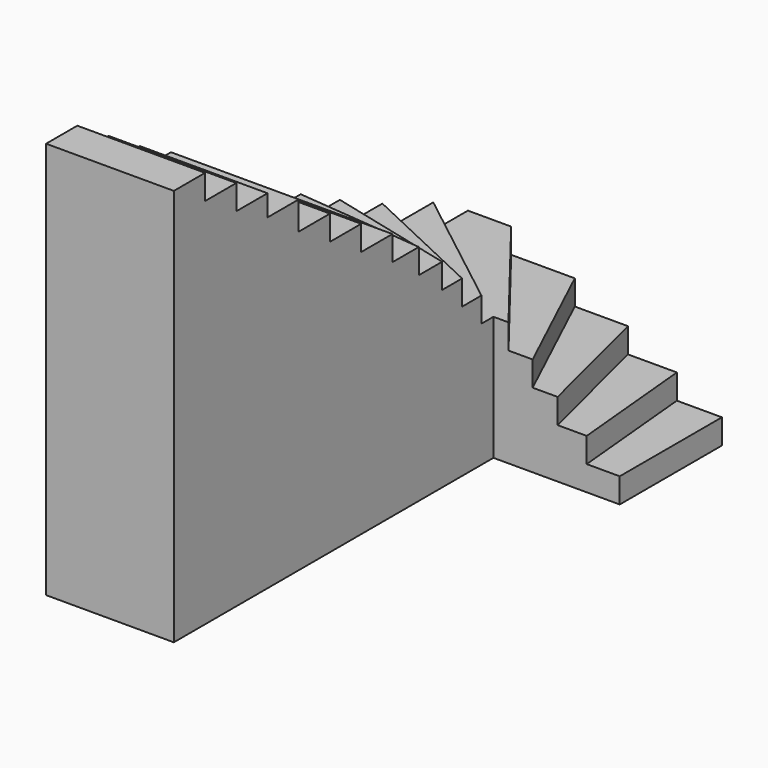
from build123d import *

# Parameters (mm, degrees)
F1_DEPTH  = 177.8
F2_DEPTH  = 355.6
F3_DEPTH  = 533.4
F4_DEPTH  = 711.2
F5_DEPTH  = 889
F6_DEPTH  = 1066.8
F7_DEPTH  = 1244.6
F8_DEPTH  = 1422.4
F9_DEPTH  = 1600.2
F0_W      = 457.2
F0_H      = 279.4
F10_DEPTH = 1778
F11_DEPTH = 1955.8
F12_DEPTH = 2133.6
F13_DEPTH = 2336.8
F14_DEPTH = 2489.2
F15_DEPTH = 2667
F16_DEPTH = 2844.8


with BuildPart() as f1:
    # F0 (on Top) → F1 (new body)
    with BuildSketch(Plane.XY):
        Polygon((581.2949443458, 914.4), (624.5369894972, 457.2), (903.9369894972, 457.2), (903.9369894972, 914.4), align=None)
        Polygon((903.9369894972, 457.2), (624.5369894972, 457.2), (667.7790346486, 0), (903.9369894972, 0), align=None)
    extrude(amount=F1_DEPTH)

    # F0 (on Top) → F2 (join)
    with BuildSketch(Plane.XY):
        Polygon((230.7885144347, 914.4), (345.1369894972, 457.2), (624.5369894972, 457.2), (581.2949443458, 914.4), align=None)
        Polygon((624.5369894972, 457.2), (345.1369894972, 457.2), (459.4854645597, 0), (667.7790346486, 0), align=None)
    extrude(amount=F2_DEPTH)

    # F0 (on Top) → F3 (join)
    with BuildSketch(Plane.XY):
        Polygon((-149.1616126291, 914.4), (65.7369894972, 457.2), (345.1369894972, 457.2), (230.7885144347, 914.4), align=None)
        Polygon((345.1369894972, 457.2), (65.7369894972, 457.2), (280.6355916235, 0), (459.4854645597, 0), align=None)
    extrude(amount=F3_DEPTH)

    # F0 (on Top) → F4 (join)
    with BuildSketch(Plane.XY):
        with BuildLine():
            ThreePointArc((-209.0448536142, 406.6104882777), (-107.5395851755, 444.3726787509), (0, 457.2))
            Line((0, 457.2), (65.7369894972, 457.2))
            Line((65.7369894972, 457.2), (-149.1616126291, 914.4))
            Line((-149.1616126291, 914.4), (-604.6857611484, 914.4))
            Line((-604.6857611484, 914.4), (-209.0448536142, 406.6104882777))
        make_face()
        with BuildLine():
            Line((65.7369894972, 457.2), (0, 457.2))
            ThreePointArc((0, 457.2), (-107.5395851755, 444.3726787509), (-209.0448536142, 406.6104882777))
            Line((-209.0448536142, 406.6104882777), (107.7630734528, 0))
            Line((107.7630734528, 0), (280.6355916235, 0))
            Line((280.6355916235, 0), (65.7369894972, 457.2))
        make_face()
    extrude(amount=F4_DEPTH)

    # F0 (on Top) → F5 (join)
    with BuildSketch(Plane.XY):
        with BuildLine():
            ThreePointArc((-323.2892203585, 323.2892203585), (-269.4076836321, 369.3932051351), (-209.0448536142, 406.6104882777))
            Line((-209.0448536142, 406.6104882777), (-604.6857611484, 914.4))
            Line((-604.6857611484, 914.4), (-914.4, 914.4))
            Line((-914.4, 914.4), (-323.2892203585, 323.2892203585))
        make_face()
        with BuildLine():
            Line((107.7630734528, 0), (-209.0448536142, 406.6104882777))
            ThreePointArc((-209.0448536142, 406.6104882777), (-269.4076836321, 369.3932051351), (-323.2892203585, 323.2892203585))
            Line((-323.2892203585, 323.2892203585), (0, 0))
            Line((0, 0), (107.7630734528, 0))
        make_face()
        with BuildLine():
            ThreePointArc((-406.6104882777, 209.0448536142), (-369.3932051351, 269.4076836321), (-323.2892203585, 323.2892203585))
            Line((-323.2892203585, 323.2892203585), (-914.4, 914.4))
            Line((-914.4, 914.4), (-914.4, 604.6857611484))
            Line((-914.4, 604.6857611484), (-406.6104882777, 209.0448536142))
        make_face()
        with BuildLine():
            Line((0, 0), (-323.2892203585, 323.2892203585))
            ThreePointArc((-323.2892203585, 323.2892203585), (-369.3932051351, 269.4076836321), (-406.6104882777, 209.0448536142))
            Line((-406.6104882777, 209.0448536142), (0, -107.7630734528))
            Line((0, -107.7630734528), (0, 0))
        make_face()
    extrude(amount=F5_DEPTH)

    # F0 (on Top) → F6 (join)
    with BuildSketch(Plane.XY):
        with BuildLine():
            ThreePointArc((-457.2, 0), (-444.3726787509, 107.5395851755), (-406.6104882777, 209.0448536142))
            Line((-406.6104882777, 209.0448536142), (-914.4, 604.6857611484))
            Line((-914.4, 604.6857611484), (-914.4, 149.1616126291))
            Line((-914.4, 149.1616126291), (-457.2, -65.7369894972))
            Line((-457.2, -65.7369894972), (-457.2, 0))
        make_face()
        with BuildLine():
            Line((0, -107.7630734528), (-406.6104882777, 209.0448536142))
            ThreePointArc((-406.6104882777, 209.0448536142), (-444.3726787509, 107.5395851755), (-457.2, 0))
            Line((-457.2, 0), (-457.2, -65.7369894972))
            Line((-457.2, -65.7369894972), (0, -280.6355916235))
            Line((0, -280.6355916235), (0, -107.7630734528))
        make_face()
    extrude(amount=F6_DEPTH)

    # F0 (on Top) → F7 (join)
    with BuildSketch(Plane.XY):
        Polygon((-457.2, -345.1369894972), (-457.2, -65.7369894972), (-914.4, 149.1616126291), (-914.4, -230.7885144347), align=None)
        Polygon((0, -280.6355916235), (-457.2, -65.7369894972), (-457.2, -345.1369894972), (0, -459.4854645597), align=None)
    extrude(amount=F7_DEPTH)

    # F0 (on Top) → F8 (join)
    with BuildSketch(Plane.XY):
        Polygon((-457.2, -624.5369894972), (-457.2, -345.1369894972), (-914.4, -230.7885144347), (-914.4, -581.2949443458), align=None)
        Polygon((0, -459.4854645597), (-457.2, -345.1369894972), (-457.2, -624.5369894972), (0, -667.7790346486), align=None)
    extrude(amount=F8_DEPTH)

    # F0 (on Top) → F9 (join)
    with BuildSketch(Plane.XY):
        Polygon((-457.2, -903.9369894972), (-457.2, -624.5369894972), (-914.4, -581.2949443458), (-914.4, -903.9369894972), align=None)
        Polygon((0, -667.7790346486), (-457.2, -624.5369894972), (-457.2, -903.9369894972), (0, -903.9369894972), align=None)
    extrude(amount=F9_DEPTH)

    # F0 (on Top) → F10 (join)
    with BuildSketch(Plane.XY):
        with Locations((-685.8, -1043.6369894972)):
            Rectangle(F0_W, F0_H)
        with Locations((-228.6, -1043.6369894972)):
            Rectangle(F0_W, F0_H)
    extrude(amount=F10_DEPTH)

    # F0 (on Top) → F11 (join)
    with BuildSketch(Plane.XY):
        with Locations((-685.8, -1323.0369894972)):
            Rectangle(F0_W, F0_H)
        with Locations((-228.6, -1323.0369894972)):
            Rectangle(F0_W, F0_H)
    extrude(amount=F11_DEPTH)

    # F0 (on Top) → F12 (join)
    with BuildSketch(Plane.XY):
        with Locations((-685.8, -1602.4369894972)):
            Rectangle(F0_W, F0_H)
        with Locations((-228.6, -1602.4369894972)):
            Rectangle(F0_W, F0_H)
    extrude(amount=F12_DEPTH)

    # F0 (on Top) → F13 (join)
    with BuildSketch(Plane.XY):
        with Locations((-685.8, -1881.8369894972)):
            Rectangle(F0_W, F0_H)
        with Locations((-228.6, -1881.8369894972)):
            Rectangle(F0_W, F0_H)
    extrude(amount=F13_DEPTH)

    # F0 (on Top) → F14 (join)
    with BuildSketch(Plane.XY):
        with Locations((-685.8, -2161.2369894972)):
            Rectangle(F0_W, F0_H)
        with Locations((-228.6, -2161.2369894972)):
            Rectangle(F0_W, F0_H)
    extrude(amount=F14_DEPTH)

    # F0 (on Top) → F15 (join)
    with BuildSketch(Plane.XY):
        with Locations((-685.8, -2440.6369894972)):
            Rectangle(F0_W, F0_H)
        with Locations((-228.6, -2440.6369894972)):
            Rectangle(F0_W, F0_H)
    extrude(amount=F15_DEPTH)

    # F0 (on Top) → F16 (join)
    with BuildSketch(Plane.XY):
        with Locations((-685.8, -2720.0369894972)):
            Rectangle(F0_W, F0_H)
        with Locations((-228.6, -2720.0369894972)):
            Rectangle(F0_W, F0_H)
    extrude(amount=F16_DEPTH)


solid = f1.part
